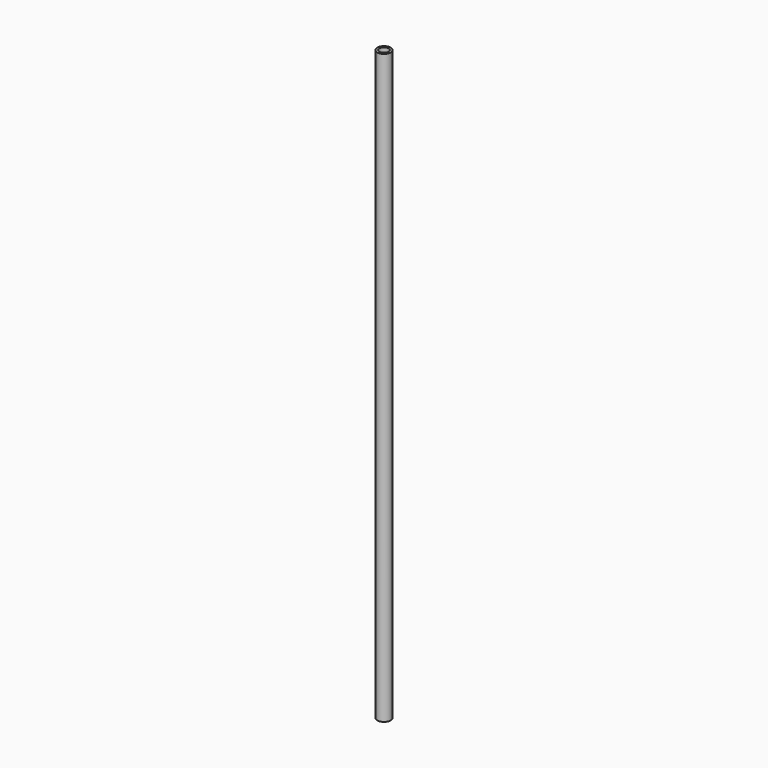
from build123d import *

# Parameters (mm, degrees)
F0_R     = 6.86
F0_R_2   = 4.6248
F1_DEPTH = 600
F2_R     = 1.5
F3_DEPTH = 6.861


with BuildPart() as f1:
    # F0 (on Top) → F1 (new body)
    with BuildSketch(Plane.XY):
        Circle(F0_R)
        Circle(F0_R_2, mode=Mode.SUBTRACT)
    extrude(amount=-F1_DEPTH)

    # F2 (on Right) → F3 (cut, through all)
    with BuildSketch(Plane.YZ):
        with Locations((0, -50)):
            Circle(F2_R)
        with Locations((0, -75)):
            Circle(F2_R)
        with Locations((0, -100)):
            Circle(F2_R)
        with Locations((0, -125)):
            Circle(F2_R)
        with Locations((0, -150)):
            Circle(F2_R)
        with Locations((0, -175)):
            Circle(F2_R)
        with Locations((0, -200)):
            Circle(F2_R)
        with Locations((0, -225)):
            Circle(F2_R)
        with Locations((0, -250)):
            Circle(F2_R)
        with Locations((0, -275)):
            Circle(F2_R)
        with Locations((0, -300)):
            Circle(F2_R)
        with Locations((0, -325)):
            Circle(F2_R)
        with Locations((0, -350)):
            Circle(F2_R)
        with Locations((0, -375)):
            Circle(F2_R)
        with Locations((0, -400)):
            Circle(F2_R)
        with Locations((0, -425)):
            Circle(F2_R)
        with Locations((0, -450)):
            Circle(F2_R)
        with Locations((0, -475)):
            Circle(F2_R)
        with Locations((0, -500)):
            Circle(F2_R)
        with Locations((0, -525)):
            Circle(F2_R)
    extrude(amount=-F3_DEPTH, mode=Mode.SUBTRACT)


solid = f1.part
